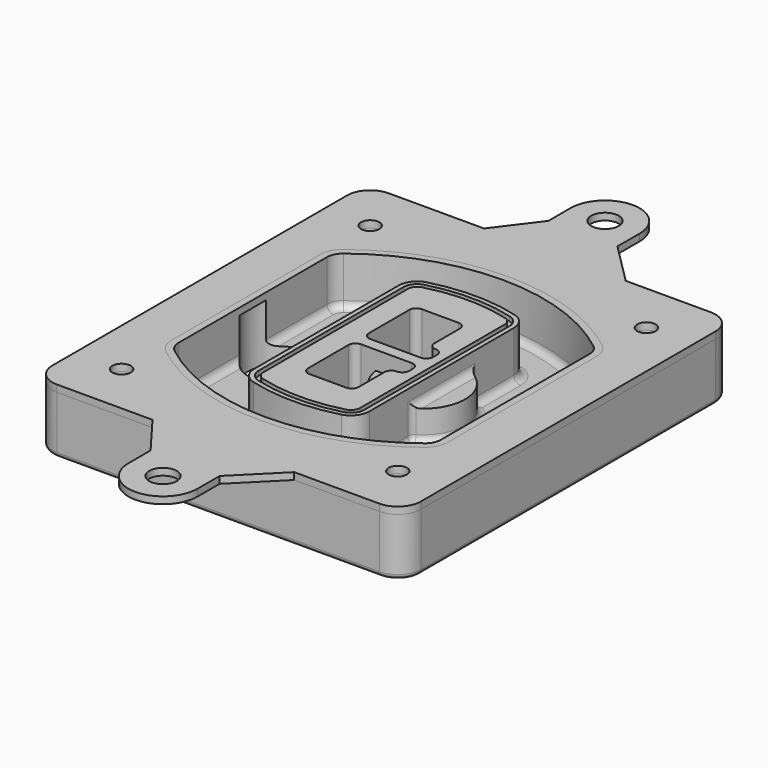
from build123d import *

# Parameters (mm, degrees)
F0_R      = 4
F1_DEPTH  = 25
F2_DEPTH  = 3
F3_DEPTH  = 18
F5_DEPTH  = 21
F6_DEPTH  = 2
F8_DEPTH  = 20
F9_DEPTH  = 16
F10_DEPTH = 25
F7_R      = 6
F7_R_2    = 4
F11_DEPTH = 6
F13_DEPTH = 9
F14_R     = 3
F15_R     = 2
F16_R     = 4
F16_R_2   = 6
F17_DEPTH = 3


with BuildPart() as f1:
    # F0 (on Top) → F1 (new body)
    with BuildSketch(Plane.XY):
        with BuildLine():
            ThreePointArc((-80, -80), (-77.0710678119, -87.0710678119), (-70, -90))
            Line((-70, -90), (70, -90))
            ThreePointArc((70, -90), (77.0710678119, -87.0710678119), (80, -80))
            Line((80, -80), (80, 80))
            ThreePointArc((80, 80), (77.0710678119, 87.0710678119), (70, 90))
            Line((70, 90), (-70, 90))
            ThreePointArc((-70, 90), (-77.0710678119, 87.0710678119), (-80, 80))
            Line((-80, 80), (-80, -80))
        make_face()
        with Locations((-60, -67.5)):
            Circle(F0_R, mode=Mode.SUBTRACT)
        with Locations((60, -67.5)):
            Circle(F0_R, mode=Mode.SUBTRACT)
        with Locations((-60, 67.5)):
            Circle(F0_R, mode=Mode.SUBTRACT)
        with BuildLine():
            ThreePointArc((-64, 40.2934422872), (-62.5820384798, 46.4328484224), (-58.6153846154, 51.3286200352))
            ThreePointArc((-58.6153846154, 51.3286200352), (0, 71.5), (58.6153846154, 51.3286200352))
            ThreePointArc((58.6153846154, 51.3286200352), (62.5820384798, 46.4328484224), (64, 40.2934422872))
            Line((64, 40.2934422872), (64, -40.2934422872))
            ThreePointArc((64, -40.2934422872), (62.5820384798, -46.4328484224), (58.6153846154, -51.3286200352))
            ThreePointArc((58.6153846154, -51.3286200352), (0, -71.5), (-58.6153846154, -51.3286200352))
            ThreePointArc((-58.6153846154, -51.3286200352), (-62.5820384798, -46.4328484224), (-64, -40.2934422872))
            Line((-64, -40.2934422872), (-64, 40.2934422872))
        make_face(mode=Mode.SUBTRACT)
        with Locations((60, 67.5)):
            Circle(F0_R, mode=Mode.SUBTRACT)
        with BuildLine():
            ThreePointArc((58.6153846154, 51.3286200352), (0, 71.5), (-58.6153846154, 51.3286200352))
            ThreePointArc((-58.6153846154, 51.3286200352), (-62.5820384798, 46.4328484224), (-64, 40.2934422872))
            Line((-64, 40.2934422872), (-64, -40.2934422872))
            ThreePointArc((-64, -40.2934422872), (-62.5820384798, -46.4328484224), (-58.6153846154, -51.3286200352))
            ThreePointArc((-58.6153846154, -51.3286200352), (0, -71.5), (58.6153846154, -51.3286200352))
            ThreePointArc((58.6153846154, -51.3286200352), (62.5820384798, -46.4328484224), (64, -40.2934422872))
            Line((64, -40.2934422872), (64, 40.2934422872))
            ThreePointArc((64, 40.2934422872), (62.5820384798, 46.4328484224), (58.6153846154, 51.3286200352))
        make_face()
        with BuildLine():
            Line((-60, -40.2934422872), (-60, 40.2934422872))
            ThreePointArc((-60, 40.2934422872), (-58.9871703427, 44.6787323838), (-56.1538461538, 48.1757121072))
            ThreePointArc((-56.1538461538, 48.1757121072), (0, 67.5), (56.1538461538, 48.1757121072))
            ThreePointArc((56.1538461538, 48.1757121072), (58.9871703427, 44.6787323838), (60, 40.2934422872))
            Line((60, 40.2934422872), (60, -40.2934422872))
            ThreePointArc((60, -40.2934422872), (58.9871703427, -44.6787323838), (56.1538461538, -48.1757121072))
            ThreePointArc((56.1538461538, -48.1757121072), (0, -67.5), (-56.1538461538, -48.1757121072))
            ThreePointArc((-56.1538461538, -48.1757121072), (-58.9871703427, -44.6787323838), (-60, -40.2934422872))
        make_face(mode=Mode.SUBTRACT)
        with BuildLine():
            ThreePointArc((-56.1538461538, 48.1757121072), (-58.9871703427, 44.6787323838), (-60, 40.2934422872))
            Line((-60, 40.2934422872), (-60, -40.2934422872))
            ThreePointArc((-60, -40.2934422872), (-58.9871703427, -44.6787323838), (-56.1538461538, -48.1757121072))
            ThreePointArc((-56.1538461538, -48.1757121072), (0, -67.5), (56.1538461538, -48.1757121072))
            ThreePointArc((56.1538461538, -48.1757121072), (58.9871703427, -44.6787323838), (60, -40.2934422872))
            Line((60, -40.2934422872), (60, 40.2934422872))
            ThreePointArc((60, 40.2934422872), (58.9871703427, 44.6787323838), (56.1538461538, 48.1757121072))
            ThreePointArc((56.1538461538, 48.1757121072), (0, 67.5), (-56.1538461538, 48.1757121072))
        make_face()
        with BuildLine():
            ThreePointArc((54.3076923077, 45.8110311612), (56.2910192399, 43.3631453548), (57, 40.2934422872))
            Line((57, 40.2934422872), (57, -40.2934422872))
            ThreePointArc((57, -40.2934422872), (56.2910192399, -43.3631453548), (54.3076923077, -45.8110311612))
            ThreePointArc((54.3076923077, -45.8110311612), (0, -64.5), (-54.3076923077, -45.8110311612))
            ThreePointArc((-54.3076923077, -45.8110311612), (-56.2910192399, -43.3631453548), (-57, -40.2934422872))
            Line((-57, -40.2934422872), (-57, 40.2934422872))
            ThreePointArc((-57, 40.2934422872), (-56.2910192399, 43.3631453548), (-54.3076923077, 45.8110311612))
            ThreePointArc((-54.3076923077, 45.8110311612), (0, 64.5), (54.3076923077, 45.8110311612))
        make_face(mode=Mode.SUBTRACT)
        with BuildLine():
            Line((57, -40.2934422872), (57, 40.2934422872))
            ThreePointArc((57, 40.2934422872), (56.2910192399, 43.3631453548), (54.3076923077, 45.8110311612))
            ThreePointArc((54.3076923077, 45.8110311612), (0, 64.5), (-54.3076923077, 45.8110311612))
            ThreePointArc((-54.3076923077, 45.8110311612), (-56.2910192399, 43.3631453548), (-57, 40.2934422872))
            Line((-57, 40.2934422872), (-57, -40.2934422872))
            ThreePointArc((-57, -40.2934422872), (-56.2910192399, -43.3631453548), (-54.3076923077, -45.8110311612))
            ThreePointArc((-54.3076923077, -45.8110311612), (0, -64.5), (54.3076923077, -45.8110311612))
            ThreePointArc((54.3076923077, -45.8110311612), (56.2910192399, -43.3631453548), (57, -40.2934422872))
        make_face()
    extrude(amount=-F1_DEPTH)

    # F0 (on Top) → F2 (join)
    with BuildSketch(Plane.XY):
        with BuildLine():
            ThreePointArc((-56.1538461538, 48.1757121072), (-58.9871703427, 44.6787323838), (-60, 40.2934422872))
            Line((-60, 40.2934422872), (-60, -40.2934422872))
            ThreePointArc((-60, -40.2934422872), (-58.9871703427, -44.6787323838), (-56.1538461538, -48.1757121072))
            ThreePointArc((-56.1538461538, -48.1757121072), (0, -67.5), (56.1538461538, -48.1757121072))
            ThreePointArc((56.1538461538, -48.1757121072), (58.9871703427, -44.6787323838), (60, -40.2934422872))
            Line((60, -40.2934422872), (60, 40.2934422872))
            ThreePointArc((60, 40.2934422872), (58.9871703427, 44.6787323838), (56.1538461538, 48.1757121072))
            ThreePointArc((56.1538461538, 48.1757121072), (0, 67.5), (-56.1538461538, 48.1757121072))
        make_face()
        with BuildLine():
            ThreePointArc((54.3076923077, 45.8110311612), (56.2910192399, 43.3631453548), (57, 40.2934422872))
            Line((57, 40.2934422872), (57, -40.2934422872))
            ThreePointArc((57, -40.2934422872), (56.2910192399, -43.3631453548), (54.3076923077, -45.8110311612))
            ThreePointArc((54.3076923077, -45.8110311612), (0, -64.5), (-54.3076923077, -45.8110311612))
            ThreePointArc((-54.3076923077, -45.8110311612), (-56.2910192399, -43.3631453548), (-57, -40.2934422872))
            Line((-57, -40.2934422872), (-57, 40.2934422872))
            ThreePointArc((-57, 40.2934422872), (-56.2910192399, 43.3631453548), (-54.3076923077, 45.8110311612))
            ThreePointArc((-54.3076923077, 45.8110311612), (0, 64.5), (54.3076923077, 45.8110311612))
        make_face(mode=Mode.SUBTRACT)
    extrude(amount=F2_DEPTH)

    # F0 (on Top) → F3 (cut)
    with BuildSketch(Plane.XY):
        with BuildLine():
            Line((57, -40.2934422872), (57, 40.2934422872))
            ThreePointArc((57, 40.2934422872), (56.2910192399, 43.3631453548), (54.3076923077, 45.8110311612))
            ThreePointArc((54.3076923077, 45.8110311612), (0, 64.5), (-54.3076923077, 45.8110311612))
            ThreePointArc((-54.3076923077, 45.8110311612), (-56.2910192399, 43.3631453548), (-57, 40.2934422872))
            Line((-57, 40.2934422872), (-57, -40.2934422872))
            ThreePointArc((-57, -40.2934422872), (-56.2910192399, -43.3631453548), (-54.3076923077, -45.8110311612))
            ThreePointArc((-54.3076923077, -45.8110311612), (0, -64.5), (54.3076923077, -45.8110311612))
            ThreePointArc((54.3076923077, -45.8110311612), (56.2910192399, -43.3631453548), (57, -40.2934422872))
        make_face()
    extrude(amount=-F3_DEPTH, mode=Mode.SUBTRACT)

    # F4 (on face) → F5 (join, through all)
    with BuildSketch(Plane.XY.offset(3)):
        with BuildLine():
            ThreePointArc((-25, -39.2465276821), (-23.3511545998, -44.1109737193), (-19.0842911877, -46.9702398883))
            ThreePointArc((-19.0842911877, -46.9702398883), (0, -49.5), (19.0842911877, -46.9702398883))
            ThreePointArc((19.0842911877, -46.9702398883), (23.3511545998, -44.1109737193), (25, -39.2465276821))
            Line((25, -39.2465276821), (25, 39.2465276821))
            ThreePointArc((25, 39.2465276821), (23.3511545998, 44.1109737193), (19.0842911877, 46.9702398883))
            ThreePointArc((19.0842911877, 46.9702398883), (0, 49.5), (-19.0842911877, 46.9702398883))
            ThreePointArc((-19.0842911877, 46.9702398883), (-23.3511545998, 44.1109737193), (-25, 39.2465276821))
            Line((-25, 39.2465276821), (-25, -39.2465276821))
        make_face()
        with BuildLine():
            ThreePointArc((18.5632183908, 45.0393118368), (21.7633659499, 42.89486221), (23, 39.2465276821))
            Line((23, 39.2465276821), (23, -39.2465276821))
            ThreePointArc((23, -39.2465276821), (21.7633659499, -42.89486221), (18.5632183908, -45.0393118368))
            ThreePointArc((18.5632183908, -45.0393118368), (0, -47.5), (-18.5632183908, -45.0393118368))
            ThreePointArc((-18.5632183908, -45.0393118368), (-21.7633659499, -42.89486221), (-23, -39.2465276821))
            Line((-23, -39.2465276821), (-23, 39.2465276821))
            ThreePointArc((-23, 39.2465276821), (-21.7633659499, 42.89486221), (-18.5632183908, 45.0393118368))
            ThreePointArc((-18.5632183908, 45.0393118368), (0, 47.5), (18.5632183908, 45.0393118368))
        make_face(mode=Mode.SUBTRACT)
        with BuildLine():
            Line((23, -39.2465276821), (23, 39.2465276821))
            ThreePointArc((23, 39.2465276821), (21.7633659499, 42.89486221), (18.5632183908, 45.0393118368))
            ThreePointArc((18.5632183908, 45.0393118368), (0, 47.5), (-18.5632183908, 45.0393118368))
            ThreePointArc((-18.5632183908, 45.0393118368), (-21.7633659499, 42.89486221), (-23, 39.2465276821))
            Line((-23, 39.2465276821), (-23, -39.2465276821))
            ThreePointArc((-23, -39.2465276821), (-21.7633659499, -42.89486221), (-18.5632183908, -45.0393118368))
            ThreePointArc((-18.5632183908, -45.0393118368), (0, -47.5), (18.5632183908, -45.0393118368))
            ThreePointArc((18.5632183908, -45.0393118368), (21.7633659499, -42.89486221), (23, -39.2465276821))
        make_face()
        with BuildLine():
            ThreePointArc((18.0421455939, 43.1083837852), (20.1755772999, 41.6787507007), (21, 39.2465276821))
            Line((21, 39.2465276821), (21, -39.2465276821))
            ThreePointArc((21, -39.2465276821), (20.1755772999, -41.6787507007), (18.0421455939, -43.1083837852))
            ThreePointArc((18.0421455939, -43.1083837852), (0, -45.5), (-18.0421455939, -43.1083837852))
            ThreePointArc((-18.0421455939, -43.1083837852), (-20.1755772999, -41.6787507007), (-21, -39.2465276821))
            Line((-21, -39.2465276821), (-21, 39.2465276821))
            ThreePointArc((-21, 39.2465276821), (-20.1755772999, 41.6787507007), (-18.0421455939, 43.1083837852))
            ThreePointArc((-18.0421455939, 43.1083837852), (0, 45.5), (18.0421455939, 43.1083837852))
        make_face(mode=Mode.SUBTRACT)
        with BuildLine():
            Line((21, -39.2465276821), (21, 39.2465276821))
            ThreePointArc((21, 39.2465276821), (20.1755772999, 41.6787507007), (18.0421455939, 43.1083837852))
            ThreePointArc((18.0421455939, 43.1083837852), (0, 45.5), (-18.0421455939, 43.1083837852))
            ThreePointArc((-18.0421455939, 43.1083837852), (-20.1755772999, 41.6787507007), (-21, 39.2465276821))
            Line((-21, 39.2465276821), (-21, -39.2465276821))
            ThreePointArc((-21, -39.2465276821), (-20.1755772999, -41.6787507007), (-18.0421455939, -43.1083837852))
            ThreePointArc((-18.0421455939, -43.1083837852), (0, -45.5), (18.0421455939, -43.1083837852))
            ThreePointArc((18.0421455939, -43.1083837852), (20.1755772999, -41.6787507007), (21, -39.2465276821))
        make_face()
        with BuildLine():
            Line((-8, -2.5), (14, -2.5))
            ThreePointArc((14, -2.5), (16.1213203436, -3.3786796564), (17, -5.5))
            Line((17, -5.5), (17, -7.5))
            ThreePointArc((17, -7.5), (16.1213203436, -9.6213203436), (14, -10.5))
            ThreePointArc((14, -10.5), (11.8786796564, -11.3786796564), (11, -13.5))
            Line((11, -13.5), (11, -27.5))
            ThreePointArc((11, -27.5), (10.1213203436, -29.6213203436), (8, -30.5))
            Line((8, -30.5), (-8, -30.5))
            ThreePointArc((-8, -30.5), (-10.1213203436, -29.6213203436), (-11, -27.5))
            Line((-11, -27.5), (-11, -5.5))
            ThreePointArc((-11, -5.5), (-10.1213203436, -3.3786796564), (-8, -2.5))
        make_face(mode=Mode.SUBTRACT)
        with BuildLine():
            ThreePointArc((-8, 2.5), (-10.1213203436, 3.3786796564), (-11, 5.5))
            Line((-11, 5.5), (-11, 27.5))
            ThreePointArc((-11, 27.5), (-10.1213203436, 29.6213203436), (-8, 30.5))
            Line((-8, 30.5), (8, 30.5))
            ThreePointArc((8, 30.5), (10.1213203436, 29.6213203436), (11, 27.5))
            Line((11, 27.5), (11, 13.5))
            ThreePointArc((11, 13.5), (11.8786796564, 11.3786796564), (14, 10.5))
            ThreePointArc((14, 10.5), (16.1213203436, 9.6213203436), (17, 7.5))
            Line((17, 7.5), (17, 5.5))
            ThreePointArc((17, 5.5), (16.1213203436, 3.3786796564), (14, 2.5))
            Line((14, 2.5), (-8, 2.5))
        make_face(mode=Mode.SUBTRACT)
    extrude(amount=-F5_DEPTH)

    # F4 (on face) → F6 (cut)
    with BuildSketch(Plane.XY.offset(3)):
        with BuildLine():
            Line((23, -39.2465276821), (23, 39.2465276821))
            ThreePointArc((23, 39.2465276821), (21.7633659499, 42.89486221), (18.5632183908, 45.0393118368))
            ThreePointArc((18.5632183908, 45.0393118368), (0, 47.5), (-18.5632183908, 45.0393118368))
            ThreePointArc((-18.5632183908, 45.0393118368), (-21.7633659499, 42.89486221), (-23, 39.2465276821))
            Line((-23, 39.2465276821), (-23, -39.2465276821))
            ThreePointArc((-23, -39.2465276821), (-21.7633659499, -42.89486221), (-18.5632183908, -45.0393118368))
            ThreePointArc((-18.5632183908, -45.0393118368), (0, -47.5), (18.5632183908, -45.0393118368))
            ThreePointArc((18.5632183908, -45.0393118368), (21.7633659499, -42.89486221), (23, -39.2465276821))
        make_face()
        with BuildLine():
            ThreePointArc((18.0421455939, 43.1083837852), (20.1755772999, 41.6787507007), (21, 39.2465276821))
            Line((21, 39.2465276821), (21, -39.2465276821))
            ThreePointArc((21, -39.2465276821), (20.1755772999, -41.6787507007), (18.0421455939, -43.1083837852))
            ThreePointArc((18.0421455939, -43.1083837852), (0, -45.5), (-18.0421455939, -43.1083837852))
            ThreePointArc((-18.0421455939, -43.1083837852), (-20.1755772999, -41.6787507007), (-21, -39.2465276821))
            Line((-21, -39.2465276821), (-21, 39.2465276821))
            ThreePointArc((-21, 39.2465276821), (-20.1755772999, 41.6787507007), (-18.0421455939, 43.1083837852))
            ThreePointArc((-18.0421455939, 43.1083837852), (0, 45.5), (18.0421455939, 43.1083837852))
        make_face(mode=Mode.SUBTRACT)
    extrude(amount=-F6_DEPTH, mode=Mode.SUBTRACT)

    # F7 (on face) → F8 (join)
    with BuildSketch(Plane(origin=(0, 0, -25), x_dir=(1, 0, 0), z_dir=(0, 0, -1))):
        with BuildLine():
            ThreePointArc((3.28842436, 0), (16.7567035675, 13.4682792075), (30.224982775, 0))
            Line((30.224982775, 0), (35.224982775, 0))
            ThreePointArc((35.224982775, 0), (16.7567035675, 18.4682792075), (-1.71157564, 0))
            Line((-1.71157564, 0), (3.28842436, 0))
        make_face()
        with BuildLine():
            Line((3.28842436, 0), (30.224982775, 0))
            ThreePointArc((30.224982775, 0), (16.7567035675, 13.4682792075), (3.28842436, 0))
        make_face()
        with BuildLine():
            ThreePointArc((3.28842436, 0), (16.7567035675, -13.4682792075), (30.224982775, 0))
            Line((30.224982775, 0), (3.28842436, 0))
        make_face()
        with BuildLine():
            Line((35.224982775, 0), (30.224982775, 0))
            ThreePointArc((30.224982775, 0), (16.7567035675, -13.4682792075), (3.28842436, 0))
            Line((3.28842436, 0), (-1.71157564, 0))
            ThreePointArc((-1.71157564, 0), (16.7567035675, -18.4682792075), (35.224982775, 0))
        make_face()
    extrude(amount=-F8_DEPTH)

    # F7 (on face) → F9 (cut)
    with BuildSketch(Plane(origin=(0, 0, -25), x_dir=(1, 0, 0), z_dir=(0, 0, -1))):
        with BuildLine():
            Line((3.28842436, 0), (30.224982775, 0))
            ThreePointArc((30.224982775, 0), (16.7567035675, 13.4682792075), (3.28842436, 0))
        make_face()
        with BuildLine():
            ThreePointArc((3.28842436, 0), (16.7567035675, -13.4682792075), (30.224982775, 0))
            Line((30.224982775, 0), (3.28842436, 0))
        make_face()
    extrude(amount=-F9_DEPTH, mode=Mode.SUBTRACT)

    # F7 (on face) → F10 (cut)
    with BuildSketch(Plane(origin=(0, 0, -25), x_dir=(1, 0, 0), z_dir=(0, 0, -1))):
        with BuildLine():
            Line((-59.0318229325, 0), (-32.0952645175, 0))
            ThreePointArc((-32.0952645175, 0), (-45.563543725, 13.4682792075), (-59.0318229325, 0))
        make_face()
        with BuildLine():
            ThreePointArc((-59.0318229325, 0), (-45.563543725, -13.4682792075), (-32.0952645175, 0))
            Line((-32.0952645175, 0), (-59.0318229325, 0))
        make_face()
    extrude(amount=-F10_DEPTH, mode=Mode.SUBTRACT)

    # F7 (on face) → F11 (cut)
    with BuildSketch(Plane(origin=(0, 0, -25), x_dir=(1, 0, 0), z_dir=(0, 0, -1))):
        with Locations((60, -67.5)):
            Circle(F7_R)
        with Locations((60, -67.5)):
            Circle(F7_R_2, mode=Mode.SUBTRACT)
        with Locations((60, -67.5)):
            Circle(F7_R)
        with Locations((60, -67.5)):
            Circle(F7_R_2, mode=Mode.SUBTRACT)
        with Locations((-60, -67.5)):
            Circle(F7_R)
        with Locations((-60, -67.5)):
            Circle(F7_R_2, mode=Mode.SUBTRACT)
        with Locations((-60, -67.5)):
            Circle(F7_R)
        with Locations((-60, -67.5)):
            Circle(F7_R_2, mode=Mode.SUBTRACT)
        with Locations((-60, 67.5)):
            Circle(F7_R)
        with Locations((-60, 67.5)):
            Circle(F7_R_2, mode=Mode.SUBTRACT)
        with Locations((-60, 67.5)):
            Circle(F7_R)
        with Locations((-60, 67.5)):
            Circle(F7_R_2, mode=Mode.SUBTRACT)
        with Locations((60, 67.5)):
            Circle(F7_R)
        with Locations((60, 67.5)):
            Circle(F7_R_2, mode=Mode.SUBTRACT)
        with Locations((60, 67.5)):
            Circle(F7_R)
        with Locations((60, 67.5)):
            Circle(F7_R_2, mode=Mode.SUBTRACT)
    extrude(amount=-F11_DEPTH, mode=Mode.SUBTRACT)

    # F12 (on face) → F13 (cut, through all)
    with BuildSketch(Plane(origin=(0, 0, -9), x_dir=(1, 0, 0), z_dir=(0, 0, -1))):
        with BuildLine():
            Line((11, 13.5), (11, 17.5481537753))
            ThreePointArc((11, 17.5481537753), (2.5696536419, 11.8239143813), (-1.5415842455, 2.5))
            Line((-1.5415842455, 2.5), (3.5224848595, 2.5))
            ThreePointArc((3.5224848595, 2.5), (6.1857188154, 8.3455872281), (11.2536447004, 12.2927168648))
            ThreePointArc((11.2536447004, 12.2927168648), (11.0640958889, 12.8831798879), (11, 13.5))
        make_face()
        with BuildLine():
            ThreePointArc((11.2536447004, -12.2927168648), (6.1857188154, -8.3455872281), (3.5224848595, -2.5))
            Line((3.5224848595, -2.5), (-1.5415842455, -2.5))
            ThreePointArc((-1.5415842455, -2.5), (2.5696536419, -11.8239143813), (11, -17.5481537753))
            Line((11, -17.5481537753), (11, -13.5))
            ThreePointArc((11, -13.5), (11.0640958889, -12.8831798879), (11.2536447004, -12.2927168648))
        make_face()
        with BuildLine():
            ThreePointArc((11.2536447004, 12.2927168648), (6.1857188154, 8.3455872281), (3.5224848595, 2.5))
            Line((3.5224848595, 2.5), (14, 2.5))
            ThreePointArc((14, 2.5), (16.1213203436, 3.3786796564), (17, 5.5))
            Line((17, 5.5), (17, 7.5))
            ThreePointArc((17, 7.5), (16.1213203436, 9.6213203436), (14, 10.5))
            ThreePointArc((14, 10.5), (12.3601599782, 10.9878446101), (11.2536447004, 12.2927168648))
        make_face()
        with BuildLine():
            Line((14, -2.5), (3.5224848595, -2.5))
            ThreePointArc((3.5224848595, -2.5), (6.1857188154, -8.3455872281), (11.2536447004, -12.2927168648))
            ThreePointArc((11.2536447004, -12.2927168648), (12.3601599782, -10.9878446101), (14, -10.5))
            ThreePointArc((14, -10.5), (16.1213203436, -9.6213203436), (17, -7.5))
            Line((17, -7.5), (17, -5.5))
            ThreePointArc((17, -5.5), (16.1213203436, -3.3786796564), (14, -2.5))
        make_face()
    extrude(amount=F13_DEPTH, mode=Mode.SUBTRACT)

    # F14
    f14_edges = [f1.edges().sort_by_distance(p)[0] for p in [
        (-57, -23.703476, -18),
        (-57, 23.703476, -18),
        (25, 0, -5),
        (25, 16.526506, -11.5),
        (25, -16.526506, -11.5),
        (25, -27.886517, -18),
        (35.224983, 0, -18),
    ]]
    fillet(f14_edges, radius=F14_R)

    # F15
    f15_edges = [f1.edges().sort_by_distance(p)[0] for p in [
        (0, -90, -25),
    ]]
    fillet(f15_edges, radius=F15_R)


with BuildPart() as f17:
    # F16 (on face) → F17 (new body, through all)
    with BuildSketch(Plane.XY):
        with BuildLine():
            Line((-28.5584991463, 90), (-70, 90))
            ThreePointArc((-70, 90), (-77.0710678119, 87.0710678119), (-80, 80))
            Line((-80, 80), (-80, -80))
            ThreePointArc((-80, -80), (-77.0710678119, -87.0710678119), (-70, -90))
            Line((-70, -90), (-28.5584991463, -90))
            Line((-28.5584991463, -90), (33, -90))
            Line((33, -90), (70, -90))
            ThreePointArc((70, -90), (77.0710678119, -87.0710678119), (80, -80))
            Line((80, -80), (80, 80))
            ThreePointArc((80, 80), (77.0710678119, 87.0710678119), (70, 90))
            Line((70, 90), (33, 90))
            Line((33, 90), (-28.5584991463, 90))
        make_face()
        with Locations((-60, -67.5)):
            Circle(F16_R, mode=Mode.SUBTRACT)
        with Locations((60, -67.5)):
            Circle(F16_R, mode=Mode.SUBTRACT)
        with Locations((-60, 67.5)):
            Circle(F16_R, mode=Mode.SUBTRACT)
        with BuildLine():
            ThreePointArc((-56.1538461538, 48.1757121072), (0, 67.5), (56.1538461538, 48.1757121072))
            ThreePointArc((56.1538461538, 48.1757121072), (58.9871703427, 44.6787323838), (60, 40.2934422872))
            Line((60, 40.2934422872), (60, -40.2934422872))
            ThreePointArc((60, -40.2934422872), (58.9871703427, -44.6787323838), (56.1538461538, -48.1757121072))
            ThreePointArc((56.1538461538, -48.1757121072), (0, -67.5), (-56.1538461538, -48.1757121072))
            ThreePointArc((-56.1538461538, -48.1757121072), (-58.9871703427, -44.6787323838), (-60, -40.2934422872))
            Line((-60, -40.2934422872), (-60, 40.2934422872))
            ThreePointArc((-60, 40.2934422872), (-58.9871703427, 44.6787323838), (-56.1538461538, 48.1757121072))
        make_face(mode=Mode.SUBTRACT)
        with Locations((60, 67.5)):
            Circle(F16_R, mode=Mode.SUBTRACT)
        with BuildLine():
            Line((33, -90), (-28.5584991463, -90))
            Line((-28.5584991463, -90), (-15, -108))
            Line((-15, -108), (-15, -120))
            ThreePointArc((-15, -120), (0, -135), (15, -120))
            Line((15, -120), (15, -108))
            Line((15, -108), (33, -90))
        make_face()
        with Locations((0, -120)):
            Circle(F16_R_2, mode=Mode.SUBTRACT)
        with BuildLine():
            Line((-15, 108), (-28.5584991463, 90))
            Line((-28.5584991463, 90), (33, 90))
            Line((33, 90), (15, 108))
            Line((15, 108), (15, 120))
            ThreePointArc((15, 120), (0, 135), (-15, 120))
            Line((-15, 120), (-15, 108))
        make_face()
        with Locations((0, 120)):
            Circle(F16_R_2, mode=Mode.SUBTRACT)
    extrude(amount=F17_DEPTH)


solid = Compound([f1.part, f17.part])
